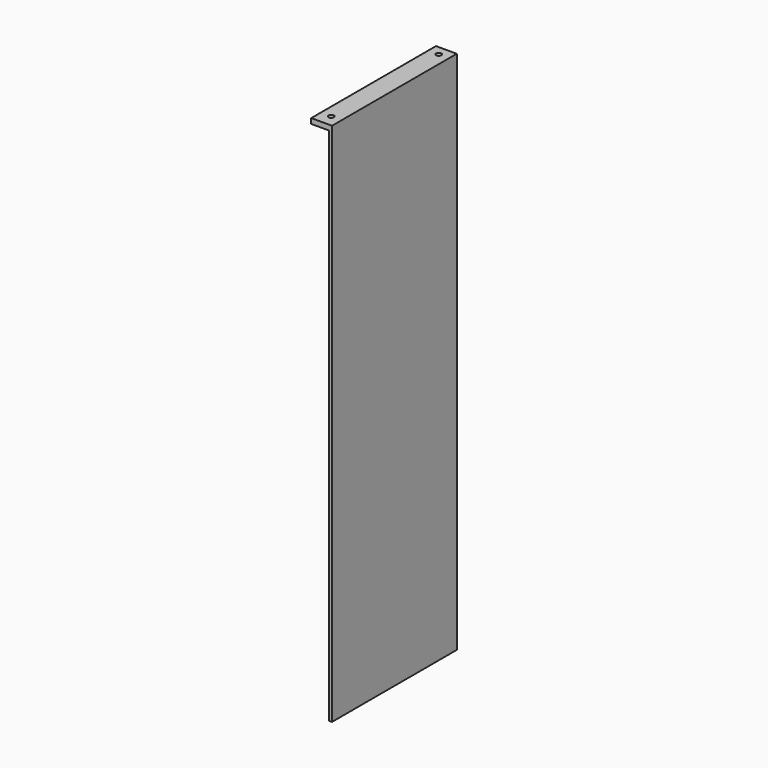
from build123d import *

# Parameters (mm, degrees)
F0_W     = 40
F0_H     = 300
F0_R     = 5
F1_DEPTH = 10
F2_W     = 5.453752
F2_H     = 300
F3_DEPTH = 1000


with BuildPart() as f1:
    # F0 (on Top) → F1 (new body)
    with BuildSketch(Plane.XY):
        Rectangle(F0_W, F0_H)
        with Locations((0, -126.960114)):
            Circle(F0_R, mode=Mode.SUBTRACT)
        with Locations((0, 131.599203)):
            Circle(F0_R, mode=Mode.SUBTRACT)
    extrude(amount=-F1_DEPTH)

    # F2 (on face) → F3 (join)
    with BuildSketch(Plane(origin=(0, 0, -10), x_dir=(1, 0, 0), z_dir=(0, 0, -1))):
        with Locations((17.273124, 0)):
            Rectangle(F2_W, F2_H)
    extrude(amount=F3_DEPTH)


solid = f1.part
